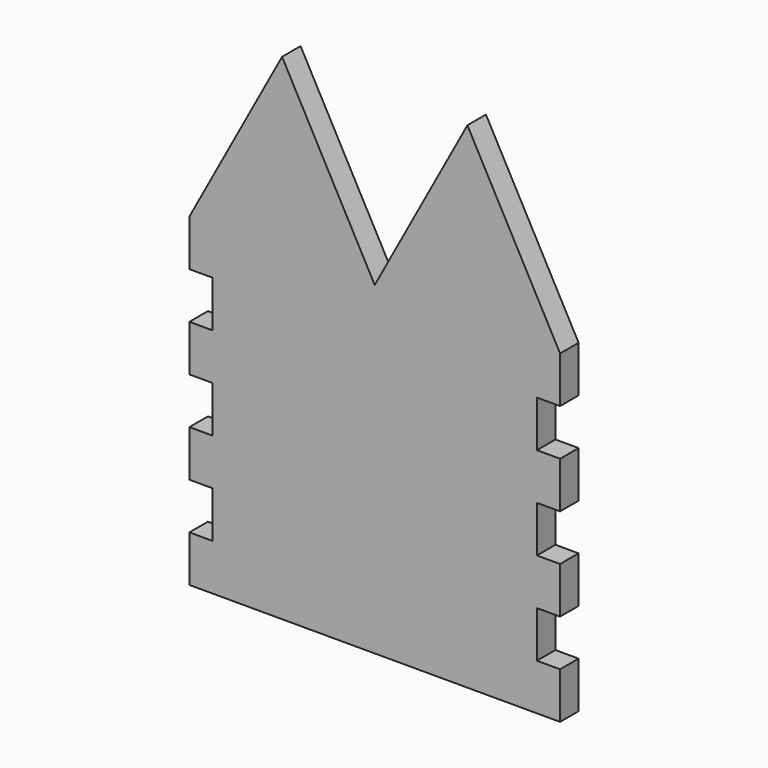
from build123d import *

# Parameters (mm, degrees)
F1_DEPTH = 5


with BuildPart() as f1:
    # F0 (on Front) → F1 (new body)
    with BuildSketch(Plane.XZ):
        Polygon((-40, 10), (-40, 0), (0, 0), (0, 70), (-40, 70), (-40, 60), (-35, 60), (-35, 50), (-40, 50), (-40, 40), (-35, 40), (-35, 30), (-40, 30), (-40, 20), (-35, 20), (-35, 10), align=None)
        Polygon((0, 70), (0, 0), (40, 0), (40, 10), (35, 10), (35, 20), (40, 20), (40, 30), (35, 30), (35, 40), (40, 40), (40, 50), (35, 50), (35, 60), (40, 60), (40, 70), align=None)
        Polygon((-40, 70), (0, 70), (-20, 106.853262), align=None)
        Polygon((20, 106.853262), (0, 70), (40, 70), align=None)
    extrude(amount=F1_DEPTH)


solid = f1.part
